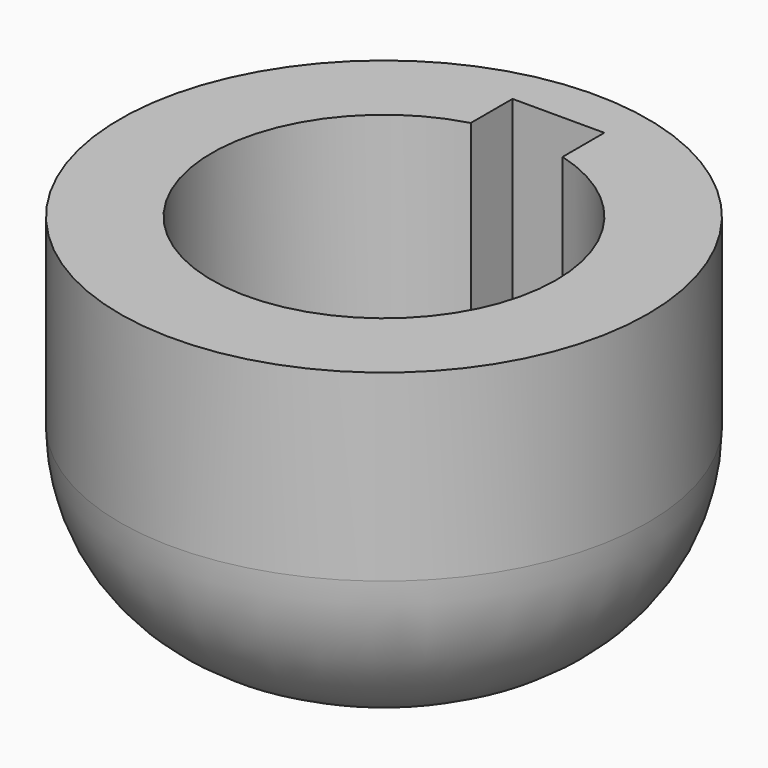
from build123d import *

# Parameters (mm, degrees)
F0_R     = 5.75
F1_DEPTH = 8
F2_DEPTH = 2
F3_R     = 4


with BuildPart() as f1:
    # F0 (on Top) → F1 (new body)
    with BuildSketch(Plane.XY):
        Circle(F0_R)
        with BuildLine():
            ThreePointArc((1, 3.614208), (2.984334, 2.270738), (3.75, 0))
            ThreePointArc((3.75, 0), (-2.270738, -2.984334), (-1, 3.614208))
            Line((-1, 3.614208), (-1, 4.75))
            Line((-1, 4.75), (1, 4.75))
            Line((1, 4.75), (1, 3.614208))
        make_face(mode=Mode.SUBTRACT)
    extrude(amount=F1_DEPTH)

    # F0 (on Top) → F2 (join)
    with BuildSketch(Plane.XY):
        with BuildLine():
            ThreePointArc((-1, 3.614208), (-2.270738, -2.984334), (3.75, 0))
            ThreePointArc((3.75, 0), (2.984334, 2.270738), (1, 3.614208))
            Line((1, 3.614208), (1, 2.75))
            Line((1, 2.75), (-1, 2.75))
            Line((-1, 2.75), (-1, 3.614208))
        make_face()
        with BuildLine():
            Line((1, 2.75), (1, 3.614208))
            ThreePointArc((1, 3.614208), (0, 3.75), (-1, 3.614208))
            Line((-1, 3.614208), (-1, 2.75))
            Line((-1, 2.75), (1, 2.75))
        make_face()
        with BuildLine():
            ThreePointArc((-1, 3.614208), (0, 3.75), (1, 3.614208))
            Line((1, 3.614208), (1, 4.75))
            Line((1, 4.75), (-1, 4.75))
            Line((-1, 4.75), (-1, 3.614208))
        make_face()
    extrude(amount=F2_DEPTH)

    # F3
    f3_edges = [f1.edges().sort_by_distance(p)[0] for p in [
        (-5.75, 0, 0),
    ]]
    fillet(f3_edges, radius=F3_R)


solid = f1.part
